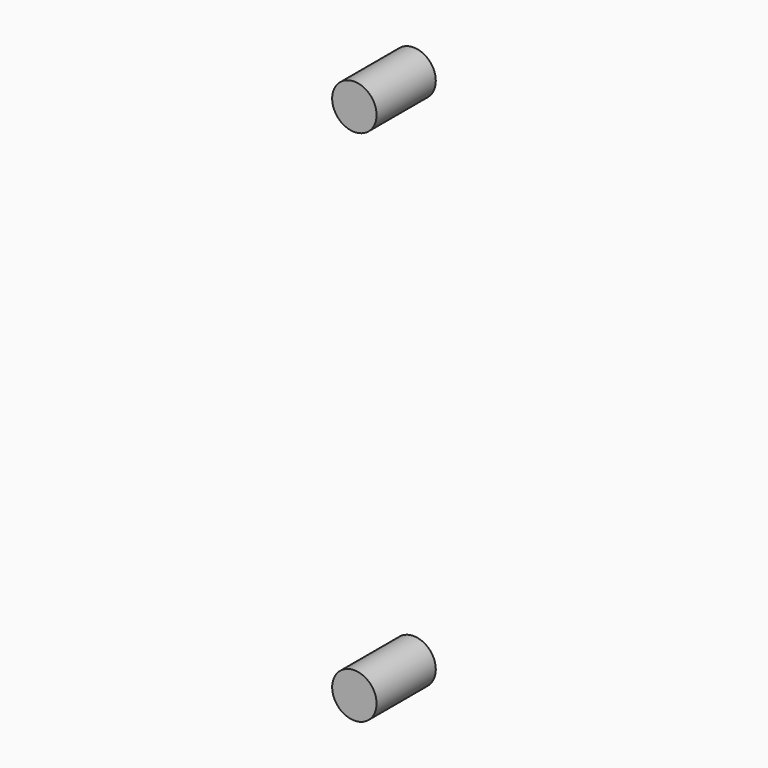
from build123d import *

# Parameters (mm, degrees)
CYLINDER016_R          = 3
CYLINDER016_DEPTH      = 10
CYLINDER016_ROLL_ANGLE = 90
CYLINDER015_R          = 3
CYLINDER015_DEPTH      = 10
CYLINDER015_ROLL_ANGLE = 90


with BuildPart() as back_mount_cut004:
    # Cylinder016 → Cylinder016 (new body)
    with BuildSketch(Plane.XY):
        Circle(CYLINDER016_R)
    extrude(amount=CYLINDER016_DEPTH)


with BuildPart() as back_mount_cut004_1:
    # Cylinder016 roll: moved
    add(back_mount_cut004.part.rotate(Axis((0, 0, 0), (1, 0, 0)), CYLINDER016_ROLL_ANGLE))


with BuildPart() as back_mount_cut004_2:
    # Cylinder016 placement: moved
    add(back_mount_cut004_1.part.moved(Location((0, -16, 5))))


with BuildPart() as fusion006:
    # Cylinder015 → Cylinder015 (new body)
    with BuildSketch(Plane.XY):
        Circle(CYLINDER015_R)
    extrude(amount=CYLINDER015_DEPTH)


with BuildPart() as fusion006_1:
    # Cylinder015 roll: moved
    add(fusion006.part.rotate(Axis((0, 0, 0), (1, 0, 0)), CYLINDER015_ROLL_ANGLE))


with BuildPart() as fusion006_2:
    # Cylinder015 placement: moved
    add(fusion006_1.part.moved(Location((0, -16, 75))))

    # Fusion006: union Back_Mount_cut004
    add(back_mount_cut004_2.part)


solid = fusion006_2.part
